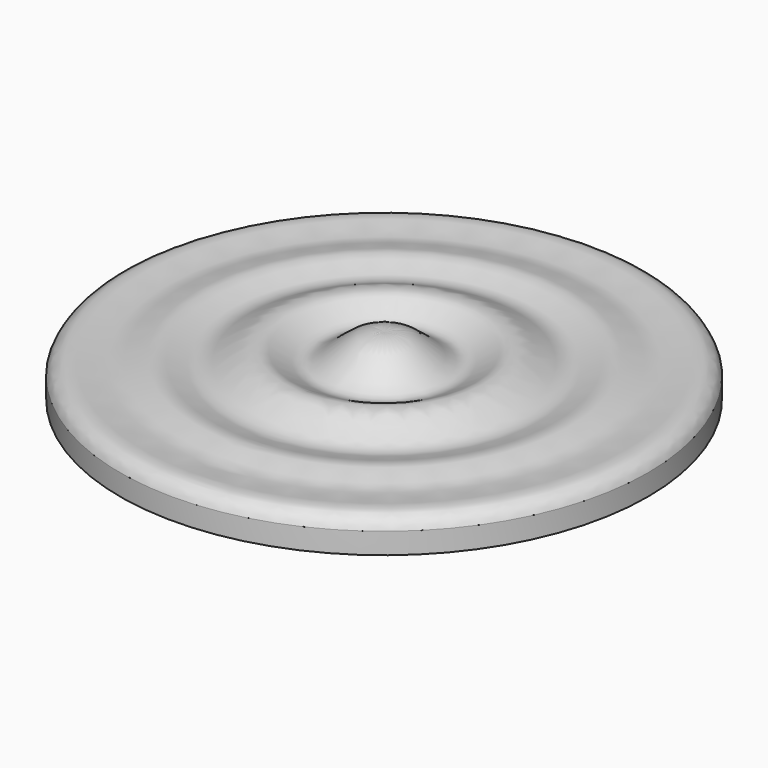
from build123d import *

# Parameters (mm, degrees)
F0_R          = 12.5
F1_DEPTH      = 0.5
F1_DEPTH_BACK = 0.5
F2_R          = 10
F3_DEPTH      = 25


with BuildPart() as f1:
    # F0 (on Top) → F1 (new body, two sides)
    with BuildSketch(Plane.XY) as f1_sk:
        Circle(F0_R)
    extrude(amount=F1_DEPTH)
    extrude(f1_sk.sketch, amount=-F1_DEPTH_BACK)

    # F2 (on face) → F3 (cut)
    with BuildSketch(Plane.XY.offset(0.5)):
        Circle(F2_R)
    extrude(amount=-F3_DEPTH, mode=Mode.SUBTRACT)

    # F4 (on Right) → F5 (revolve)
    with BuildSketch(Plane.YZ):
        with BuildLine():
            add(Edge.make_bspline(
                [(0, 2.3), (-0.5863639585, 2.3508427839), (-1.4990472159, 2.1589461264), (-2.9973770587, 0.3658457695), (-4.7266114084, 2.3487976007), (-6.7693691414, 0.3710648295), (-8.5187679971, 1.5983260061), (-10.2312680267, 0.5210206799), (-12.1127263009, 1.4507284424), (-12.5, 0.5)],
                knots=[0, 0, 0, 0, 0.128486707, 0.268776546, 0.4101902637, 0.5655004063, 0.7023153284, 0.8455539218, 1, 1, 1, 1], degree=3))
            Line((-12.5, 0.5), (0, 0.5))
            Line((0, 0.5), (0, 2.3))
        make_face()
    revolve(axis=Axis((0, 0, 1.4), (0, 0, 1)))


solid = f1.part
